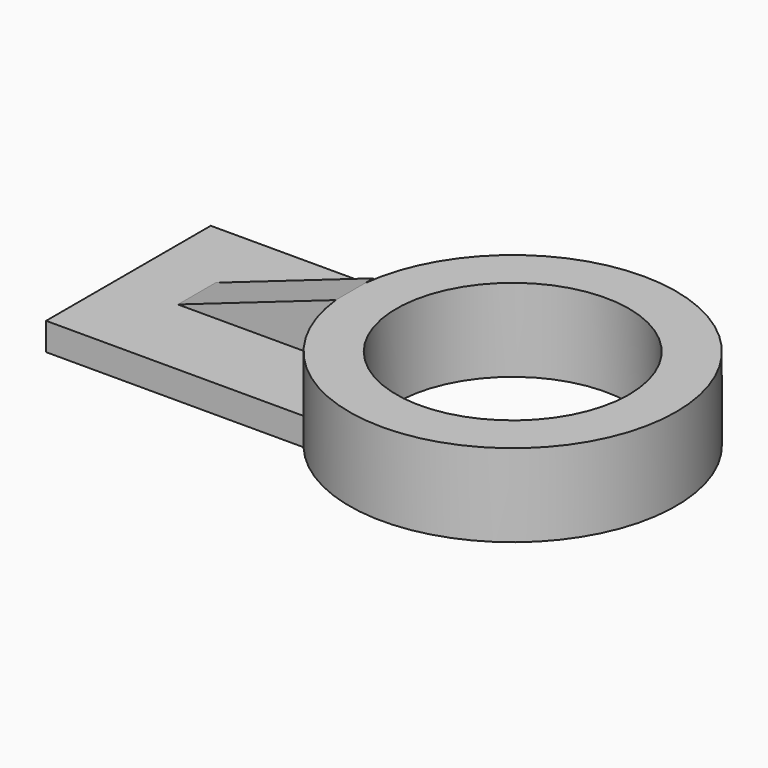
from build123d import *

# Parameters (mm, degrees)
F0_W      = 158.8544994593
F0_H      = 94.7234593332
F1_DEPTH  = 12.7
F3_DEPTH  = 12.701
F4_R      = 75.1836031241
F5_DEPTH  = 38.1
F6_R      = 53.5400409411
F7_DEPTH  = 38.101
F8_W      = 72.6389752571
F8_H      = 21.686675027
F9_DEPTH  = 25.4
F11_DEPTH = 83.5967873179


with BuildPart() as f1:
    # F0 (on Top) → F1 (new body)
    with BuildSketch(Plane.XY):
        with Locations((-31.5255522728, 7.8500341624)):
            Rectangle(F0_W, F0_H)
    extrude(amount=F1_DEPTH)

    # F2 (on face) → F3 (cut, through all)
    with BuildSketch(Plane.XY.offset(12.7)):
        with BuildLine():
            Line((47.9016974568, -39.5116955042), (47.9016974568, 55.211763829))
            ThreePointArc((47.9016974568, 55.211763829), (16.204565289, 7.8500341624), (47.9016974568, -39.5116955042))
        make_face()
    extrude(amount=-F3_DEPTH, mode=Mode.SUBTRACT)

    # F4 (on Top) → F5 (join)
    with BuildSketch(Plane.XY):
        with Locations((65.4443874955, 8.4121841937)):
            Circle(F4_R)
    extrude(amount=F5_DEPTH)

    # F6 (on face) → F7 (cut, through all)
    with BuildSketch(Plane.XY.offset(38.1)):
        with Locations((65.4443874955, 8.4121841937)):
            Circle(F6_R)
    extrude(amount=-F7_DEPTH, mode=Mode.SUBTRACT)

    # F8 (on face) → F9 (join)
    with BuildSketch(Plane.XY.offset(12.7)):
        with Locations((-45.5866075186, 10.8433375135)):
            Rectangle(F8_W, F8_H)
    extrude(amount=F9_DEPTH)

    # F10 (on face) → F11 (cut, through all)
    with BuildSketch(Plane.XZ):
        Polygon((-81.9060951471, 38.1), (-81.9060951471, 12.7), (-9.26711989, 38.1), align=None)
    extrude(amount=-F11_DEPTH, mode=Mode.SUBTRACT)


solid = f1.part
